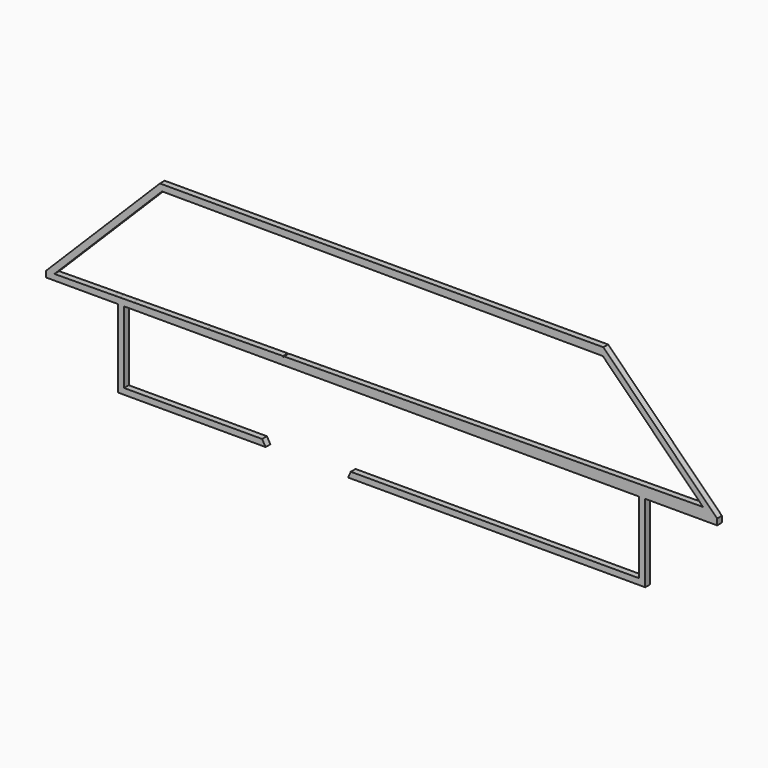
from build123d import *

# Parameters (mm, degrees)
F1_DEPTH = 3.175


with BuildPart() as f1:
    # F0 (on Front) → F1 (new body)
    with BuildSketch(Plane.XZ):
        Polygon((-109.02407, -38.0746), (-136.525, -38.0746), (-136.525, 0.0254), (-86.268388, 0.0254), (-38.200188, 0.0254), (136.525, 0.0254), (136.525, -38.0746), (0, -38.0746), (-16.379747, -38.0746), (-17.745636, -41.2496), (139.7, -41.2496), (139.7, 0.0254), (177.8, 0.0254), (177.8, 3.229479), (117.504079, 63.5254), (-117.504079, 63.5254), (-177.829079, 3.2004), (-177.8, 0.0254), (-139.7, 0.0254), (-139.7, -41.2496), (-61.467241, -41.2496), (-63.375022, -38.0746), (-86.524069, -38.0746), align=None)
        Polygon((-141.752446, 3.415089), (-173.407102, 3.132249), (-152.280724, 24.258627), (-116.353083, 60.186267), (-115.853459, 60.18446), (-76.571651, 60.042381), (-33.768375, 59.887564), (117.197821, 59.34153), (170.335695, 6.203656), (0, 4.681674), (-33.768375, 4.379947), (-51.768549, 4.219112), (-51.998988, 3.506442), (-52.306652, 4.214304), (-92.559852, 3.854634), (-131.528538, 3.506442), (-138.940506, 3.440214), align=None, mode=Mode.SUBTRACT)
    extrude(amount=F1_DEPTH)


solid = f1.part
